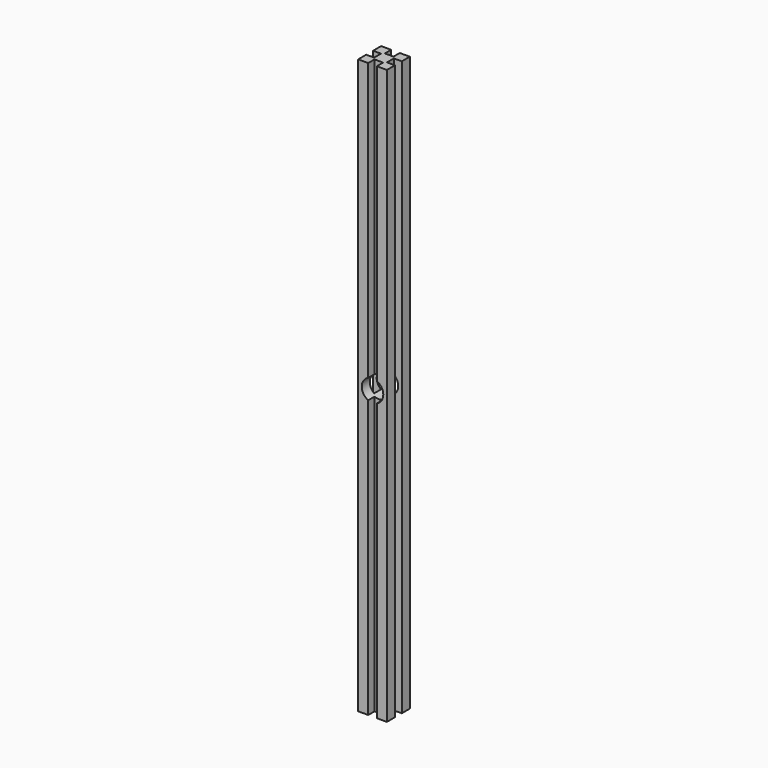
from build123d import *

# Parameters (mm, degrees)
F1_DEPTH = 400
F2_R     = 7.5
F3_DEPTH = 25


with BuildPart() as f1:
    # F0 (on Top) → F1 (new body)
    with BuildSketch(Plane.XY):
        Polygon((-87.166744, -48.963183), (-87.166744, -55.963183), (-80.166744, -55.963183), (-80.166744, -50.463183), (-74.166744, -50.463183), (-74.166744, -55.963183), (-67.166744, -55.963183), (-67.166744, -48.963183), (-72.666744, -48.963183), (-72.666744, -42.963183), (-67.166744, -42.963183), (-67.166744, -35.963183), (-74.166744, -35.963183), (-74.166744, -41.463183), (-80.166744, -41.463183), (-80.166744, -35.963183), (-87.166744, -35.963183), (-87.166744, -42.963183), (-81.666744, -42.963183), (-81.666744, -48.963183), align=None)
    extrude(amount=F1_DEPTH)

    # F2 (on face) → F3 (cut, symmetric)
    with BuildSketch(Plane.XZ.offset(50.463183)):
        with Locations((-77.166744, 200)):
            Circle(F2_R)
    extrude(amount=F3_DEPTH, both=True, mode=Mode.SUBTRACT)


solid = f1.part
